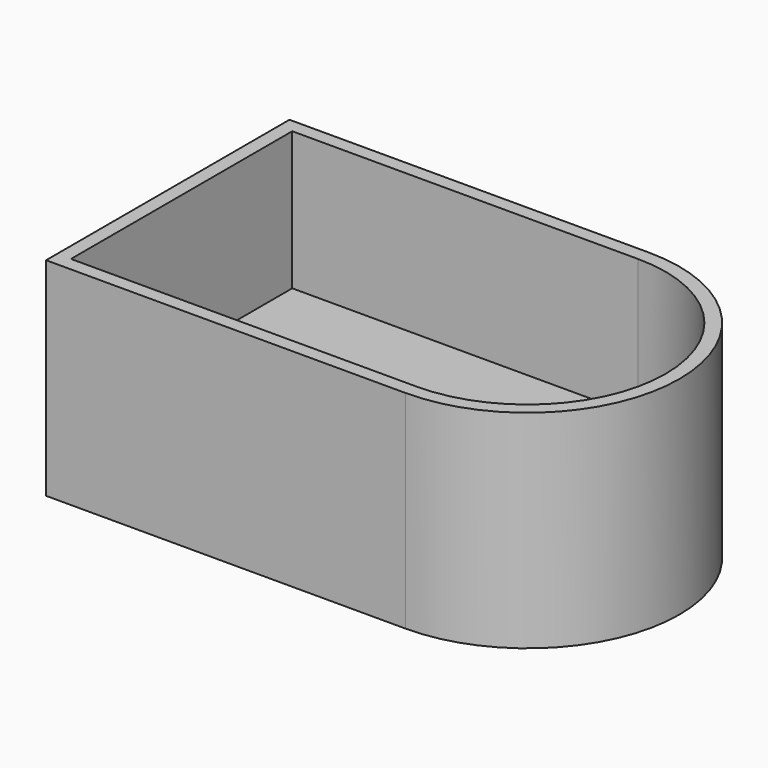
from build123d import *

# Parameters (mm, degrees)
F1_DEPTH = 15
F0_W     = 25
F0_H     = 20
F2_DEPTH = 5


with BuildPart() as f1:
    # F0 (on Top) → F1 (new body)
    with BuildSketch(Plane.XY):
        with BuildLine():
            ThreePointArc((12.5, -11), (23.5, 0), (12.5, 11))
            Line((12.5, 11), (-13.5, 11))
            Line((-13.5, 11), (-13.5, -11))
            Line((-13.5, -11), (12.5, -11))
        make_face()
        with BuildLine():
            Line((-12.5, 10), (12.5, 10))
            ThreePointArc((12.5, 10), (22.5, 0), (12.5, -10))
            Line((12.5, -10), (-12.5, -10))
            Line((-12.5, -10), (-12.5, 10))
        make_face(mode=Mode.SUBTRACT)
    extrude(amount=F1_DEPTH)

    # F0 (on Top) → F2 (join)
    with BuildSketch(Plane.XY):
        Rectangle(F0_W, F0_H)
        with BuildLine():
            ThreePointArc((12.5, -10), (22.5, 0), (12.5, 10))
            Line((12.5, 10), (12.5, -10))
        make_face()
    extrude(amount=F2_DEPTH)


solid = f1.part
